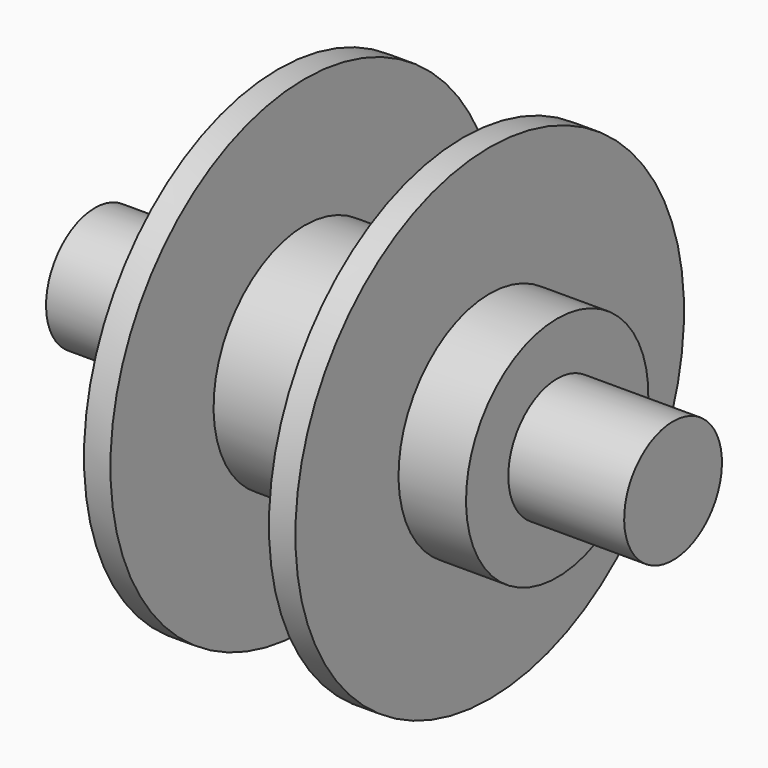
from build123d import *


with BuildPart() as f1:
    # F0 (on Front) → F1 (revolve)
    with BuildSketch(Plane.XZ):
        Polygon((-4.2418, 12.3444), (-4.2418, 4.5212), (-21.3868, 4.5212), (-21.3868, -4.5212), (21.3868, -4.5212), (21.3868, 4.5212), (21.3868, 12.3444), (9.658051, 12.3444), (9.658051, 31.4198), (5.746451, 31.4198), (5.746451, 12.3444), align=None)
    revolve(axis=Axis((0, 0, -4.5212), (-1, 0, 0)))

    # F2: F1 across face


with BuildPart() as f1_1:
    add(f1.part)
    add(f1.part.mirror(Plane(origin=(21.3868, 0, -4.5212), x_dir=(0, 1, 0), z_dir=(1, 0, 0))))


solid = f1_1.part
